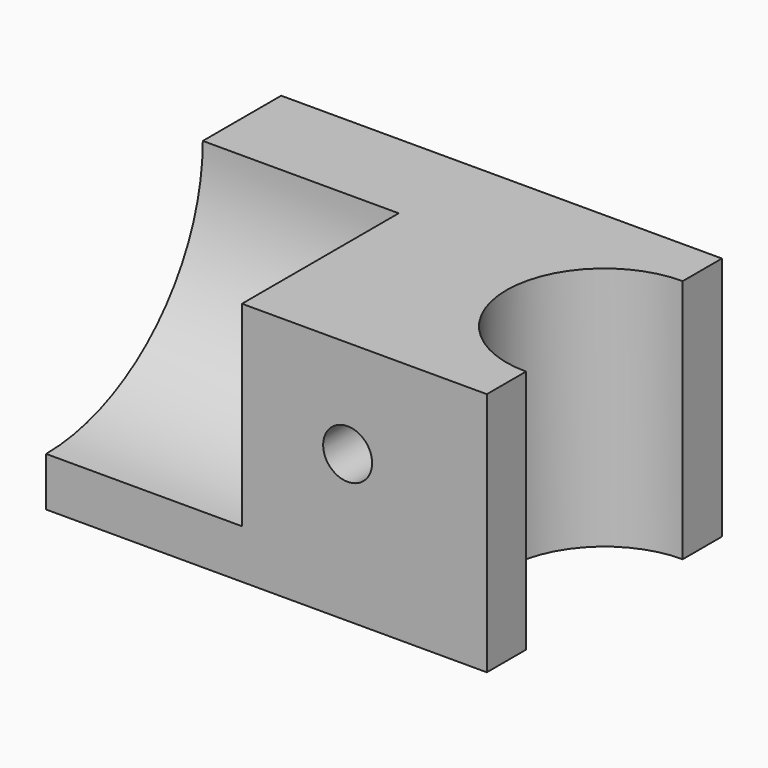
from build123d import *

# Parameters (mm, degrees)
F0_W     = 114.3
F0_H     = 63.5
F1_DEPTH = 76.2
F2_R     = 50.8
F3_DEPTH = 50.8
F4_R     = 6.35
F5_DEPTH = 76.2
F6_R     = 25.4
F7_DEPTH = 87.376


with BuildPart() as f1:
    # F0 (on Front) → F1 (new body)
    with BuildSketch(Plane.XZ):
        Rectangle(F0_W, F0_H)
    extrude(amount=F1_DEPTH)

    # F2 (on face) → F3 (cut)
    with BuildSketch(Plane(origin=(-57.15, 0, 0), x_dir=(0, -1, 0), z_dir=(-1, 0, 0))):
        with Locations((76.2, 31.75)):
            Circle(F2_R)
    extrude(amount=-F3_DEPTH, mode=Mode.SUBTRACT)

    # F4 (on face) → F5 (cut)
    with BuildSketch(Plane.XZ.offset(76.2)):
        with Locations((21.054188, 6.35)):
            Circle(F4_R)
    extrude(amount=-F5_DEPTH, mode=Mode.SUBTRACT)

    # F6 (on face) → F7 (cut)
    with BuildSketch(Plane.XY.offset(31.75)):
        with Locations((57.15, -38.1)):
            Circle(F6_R)
    extrude(amount=-F7_DEPTH, mode=Mode.SUBTRACT)


solid = f1.part
